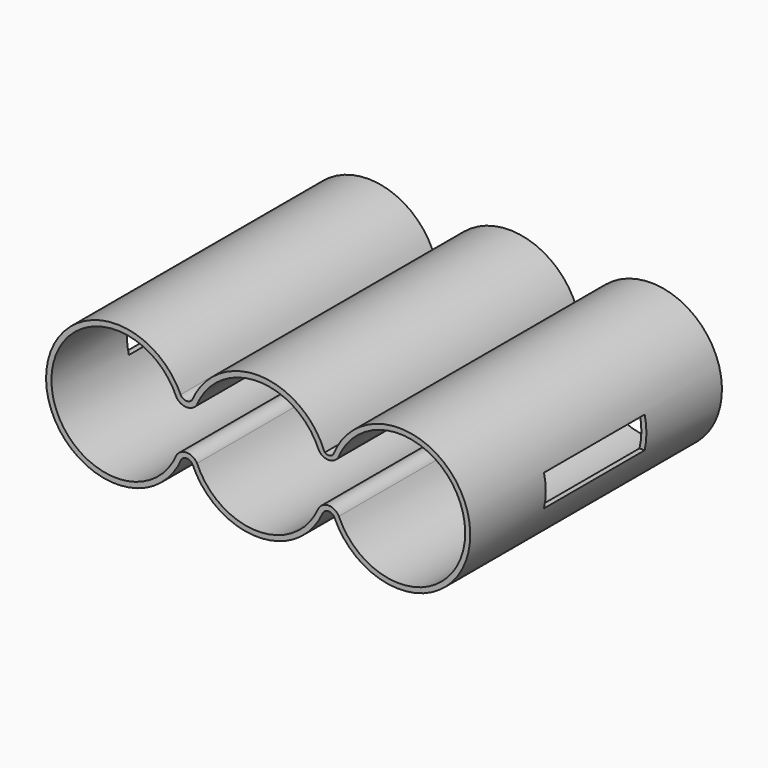
from build123d import *

# Parameters (mm, degrees)
BOX_W     = 30
BOX_H     = 8
BOX_DEPTH = 2
PAD_DEPTH = 20


with BuildPart() as cube:
    # Box → Box (new body)
    with BuildSketch(Plane(origin=(-15, -14, -1), x_dir=(1, 0, 0), z_dir=(0, 0, 1))):
        with Locations((15, 4)):
            Rectangle(BOX_W, BOX_H)
    extrude(amount=BOX_DEPTH)


with BuildPart() as cut:
    # Sketch001 → Pad (new body)
    with BuildSketch(Plane.XZ):
        with BuildLine():
            ThreePointArc((4.254276, 1.593075), (0.107321, 4.541501), (-4.174276, 1.792251))
            ThreePointArc((-4.903411, 1.857822), (-4.556737, 1.626068), (-4.174276, 1.792251))
            ThreePointArc((-4.903411, 1.857822), (-13.456487, -0.068818), (-4.848247, -1.731724))
            ThreePointArc((-4.141644, -1.811432), (-4.474352, -1.589018), (-4.848247, -1.731724))
            ThreePointArc((-4.141644, -1.811432), (-0.029723, -4.520356), (4.117465, -1.865739))
            ThreePointArc((4.873323, -1.837964), (4.486531, -1.610669), (4.117465, -1.865739))
            ThreePointArc((4.873323, -1.837964), (13.505182, 0.115954), (4.784336, 1.623809))
            ThreePointArc((4.254276, 1.593075), (4.524261, 1.522978), (4.784336, 1.623809))
        make_face()
        with BuildLine():
            ThreePointArc((3.875197, 1.610758), (-0.003981, 4.196626), (-3.878246, 1.603403))
            ThreePointArc((-5.168346, 1.619355), (-4.527466, 1.274089), (-3.878246, 1.603403))
            ThreePointArc((-5.168346, 1.619355), (-13.118412, 0.002733), (-5.170487, -1.624384))
            ThreePointArc((-3.861033, -1.649724), (-4.508513, -1.262573), (-5.170487, -1.624384))
            ThreePointArc((-3.861033, -1.649724), (-0.044432, -4.198474), (3.825254, -1.731068))
            ThreePointArc((5.156586, -1.685491), (4.476572, -1.289173), (3.825254, -1.731068))
            ThreePointArc((5.156586, -1.685491), (13.185859, 0.025154), (5.136633, 1.639308))
            ThreePointArc((3.875197, 1.610758), (4.5143, 1.254541), (5.136633, 1.639308))
        make_face(mode=Mode.SUBTRACT)
    extrude(amount=PAD_DEPTH)

    # Cut: cut Cube
    add(cube.part, mode=Mode.SUBTRACT)


solid = cut.part
